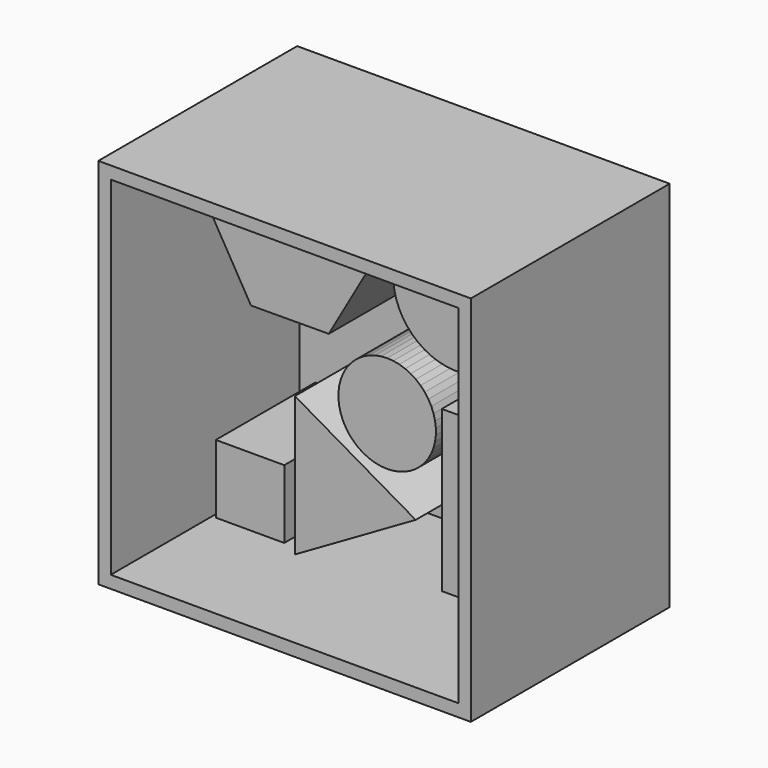
from build123d import *

# Parameters (mm, degrees)
F0_W      = 74.9482437968
F0_H      = 75.0057548285
F1_DEPTH  = 25
F2_DEPTH  = 25
F3_T      = -2.5
F5_DEPTH  = 25
F6_R      = 12.6957463679
F7_DEPTH  = 25
F8_W      = 16.4368115366
F8_H      = 32.2714154609
F9_DEPTH  = 25
F11_DEPTH = 25
F12_W     = 13.7684866786
F12_H     = 13.7785351835
F13_DEPTH = 25
F15_DEPTH = 25


with BuildPart() as f1:
    # F0 (on Front) → F1 (new body)
    with BuildSketch(Plane.XZ):
        with Locations((-37.4741218984, 37.5028774142)):
            Rectangle(F0_W, F0_H)
    extrude(amount=F1_DEPTH)

    # F2 (add): a face of the model
    f2_faces = [f1.faces().sort_by_distance(p)[0] for p in [
        (-37.4741218984, 0, 37.5028774142),
    ]]
    extrude(f2_faces, amount=F2_DEPTH)

    # F3
    f3_openings = [f1.faces().sort_by_distance(p)[0] for p in [
        (-37.474122, -25, 37.502877),
    ]]
    offset(amount=F3_T, openings=f3_openings)

    # F4 (on face) → F5 (join)
    with BuildSketch(Plane.XZ.offset(-22.5)):
        Polygon((-46.5854653187, 44.4409851923), (-38.8256809644, 58.027296792), (-46.7118797764, 71.5406229706), (-62.3578629427, 71.4676375494), (-70.1176472969, 57.8813259497), (-62.231448485, 44.3679997711), align=None)
    extrude(amount=F5_DEPTH)

    # F6 (on face) → F7 (join)
    with BuildSketch(Plane.XZ.offset(-22.5)):
        with Locations((-20.9236498922, 58.88639763)):
            Circle(F6_R)
    extrude(amount=F7_DEPTH)

    # F8 (on face) → F9 (join)
    with BuildSketch(Plane.XZ.offset(-22.5)):
        with Locations((-15.6277697533, 22.4080828484)):
            Rectangle(F8_W, F8_H)
    extrude(amount=F9_DEPTH)

    # F10 (on face) → F11 (join)
    with BuildSketch(Plane.XZ.offset(-22.5)):
        Polygon((-53.3962547779, 31.2044414208), (-53.3962547779, 3.1478276029), (-29.0985144675, 17.1761345118), align=None)
    extrude(amount=F11_DEPTH)

    # F12 (on face) → F13 (join)
    with BuildSketch(Plane.XZ.offset(-22.5)):
        with Locations((-62.4265633523, 11.3765813876)):
            Rectangle(F12_W, F12_H)
    extrude(amount=F13_DEPTH)

    # F14 (on face) → F15 (join)
    with BuildSketch(Plane.XZ.offset(-22.5)):
        Polygon((-44.6300245821, 34.7623496997), (-44.6300245821, 33.5300371302), (-44.475574863, 32.3074417133), (-44.1691111892, 31.1138445092), (-43.7154666758, 29.9680692588), (-43.1217955677, 28.8881855222), (-42.3974604132, 27.8912237111), (-41.5538844101, 26.9929065087), (-40.604371256, 26.207400914), (-39.5638953406, 25.5470948195), (-38.4488655906, 25.0224016466), (-37.2768666912, 24.6415961203), (-36.0663817653, 24.410683771), (-34.8365008831, 24.3333062246), (-33.6066200009, 24.410683771), (-32.396135075, 24.6415961203), (-31.2241361756, 25.0224016466), (-30.1091064256, 25.5470948195), (-29.0686305102, 26.207400914), (-28.1191173561, 26.9929065087), (-27.2755413531, 27.8912237111), (-26.5512061985, 28.8881855222), (-25.9575350905, 29.9680692588), (-25.503890577, 31.1138445092), (-25.1974269032, 32.3074417133), (-25.0429771841, 33.5300371302), (-25.0429771841, 34.7623496997), (-25.1974269032, 35.9849451165), (-25.503890577, 37.1785423206), (-25.9575350905, 38.3243175711), (-26.5512061985, 39.4042013076), (-27.2755413531, 40.4011631188), (-28.1191173561, 41.2994803211), (-29.0686305102, 42.0849859158), (-30.1091064256, 42.7452920104), (-31.2241361756, 43.2699851832), (-32.396135075, 43.6507907096), (-33.6066200009, 43.8817030588), (-34.8365008831, 43.9590806053), (-36.0663817653, 43.8817030588), (-37.2768666912, 43.6507907096), (-38.4488655906, 43.2699851832), (-39.5638953406, 42.7452920104), (-40.604371256, 42.0849859158), (-41.5538844101, 41.2994803211), (-42.3974604132, 40.4011631188), (-43.1217955677, 39.4042013076), (-43.7154666758, 38.3243175711), (-44.1691111892, 37.1785423206), (-44.475574863, 35.9849451165), align=None)
    extrude(amount=F15_DEPTH)


solid = f1.part
